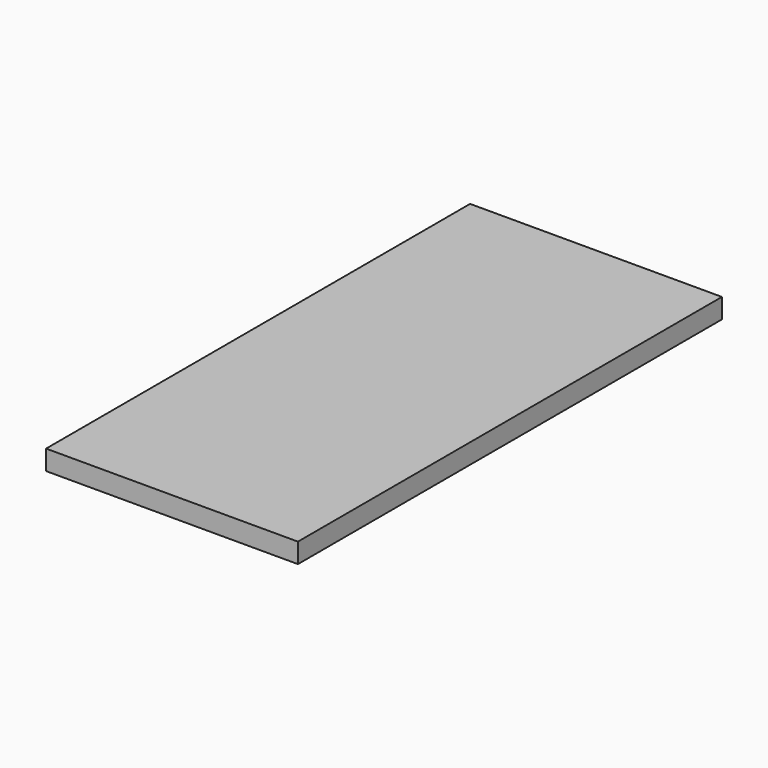
from build123d import *

# Parameters (mm, degrees)
SKETCH_W      = 76.2
SKETCH_H      = 160.3502
EXTRUDE_DEPTH = 5.9944


with BuildPart() as part:
    # Sketch → Extrude (new body)
    with BuildSketch(Plane.XY):
        with Locations((38.1, -80.1751)):
            Rectangle(SKETCH_W, SKETCH_H)
    extrude(amount=EXTRUDE_DEPTH)


solid = part.part
